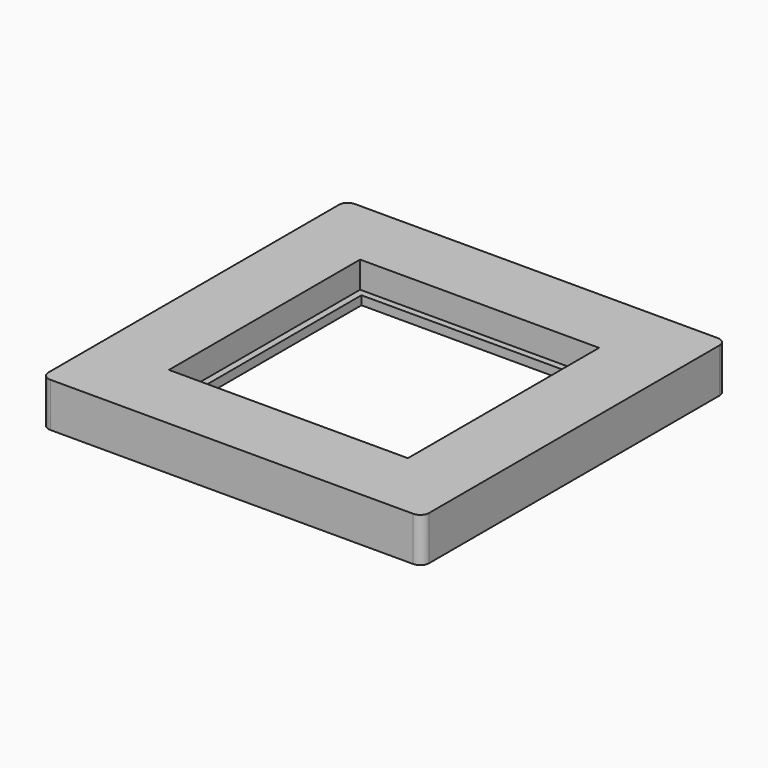
from build123d import *

# Parameters (mm, degrees)
PAD_DEPTH       = 10
SKETCH001_W     = 70
SKETCH001_H     = 70
POCKET_DEPTH    = 2
SKETCH002_W     = 51
SKETCH002_H     = 51
POCKET001_DEPTH = 2
SKETCH003_W     = 54
SKETCH003_H     = 54
POCKET002_DEPTH = 6.001


with BuildPart() as part:
    # Sketch → Pad (new body)
    with BuildSketch(Plane.XY):
        with BuildLine():
            Line((-41, 43), (41, 43))
            ThreePointArc((43, 41), (42.414214, 42.414214), (41, 43))
            Line((43, 41), (43, -41))
            ThreePointArc((41, -43), (42.414214, -42.414214), (43, -41))
            Line((41, -43), (-41, -43))
            ThreePointArc((-43, -41), (-42.414214, -42.414214), (-41, -43))
            Line((-43, -41), (-43, 41))
            ThreePointArc((-41, 43), (-42.414214, 42.414214), (-43, 41))
        make_face()
    extrude(amount=PAD_DEPTH)

    # Sketch001 (on Face9 of Pad) → Pocket (cut)
    with BuildSketch(Plane(origin=(0, 0, 0), x_dir=(1, 0, 0), z_dir=(0, 0, -1))):
        Rectangle(SKETCH001_W, SKETCH001_H)
    extrude(amount=-POCKET_DEPTH, mode=Mode.SUBTRACT)

    # Sketch002 (on Face15 of Pocket) → Pocket001 (cut)
    with BuildSketch(Plane(origin=(0, 0, 2), x_dir=(1, 0, 0), z_dir=(0, 0, -1))):
        Rectangle(SKETCH002_W, SKETCH002_H)
    extrude(amount=-POCKET001_DEPTH, mode=Mode.SUBTRACT)

    # Sketch003 (on Face20 of Pocket001) → Pocket002 (cut, through all)
    with BuildSketch(Plane(origin=(0, 0, 4), x_dir=(1, 0, 0), z_dir=(0, 0, -1))):
        Rectangle(SKETCH003_W, SKETCH003_H)
    extrude(amount=-POCKET002_DEPTH, mode=Mode.SUBTRACT)


solid = part.part
